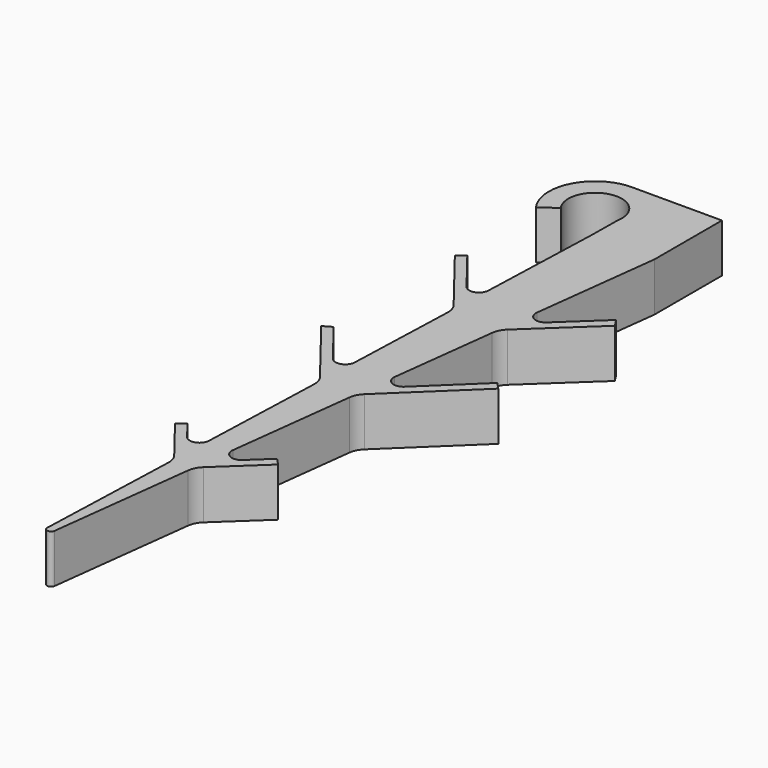
from build123d import *

# Parameters (mm, degrees)
F1_DEPTH = 6.35
F3_DEPTH = 6.35
F4_R     = 2.54
F5_R     = 1.27
F6_R     = 0.508


with BuildPart() as f1:
    # F0 (on Top) → F1 (new body)
    with BuildSketch(Plane.XY):
        with BuildLine():
            ThreePointArc((-2.799087249, 39.5839911841), (-0.7915221585, 45.0743154299), (3.4336560515, 41.0342848595))
            Line((3.4336560515, 41.0342848595), (3.3770644537, 36.6740419664))
            Line((3.3770644537, 36.6740419664), (0, -60.1062413045))
            Line((0, -60.1062413045), (11.7469782392, 36.6740419664))
            Line((11.7469782392, 36.6740419664), (11.7469782392, 47.7051909764))
            Line((11.7469782392, 47.7051909764), (0, 47.7051909764))
            ThreePointArc((0, 47.7051909764), (-5.3743672697, 44.4126239501), (-4.8820243994, 38.1291201766))
            Line((-4.8820243994, 38.1291201766), (-2.799087249, 39.5839911841))
        make_face()
    extrude(amount=F1_DEPTH)

    # F2 (on face) → F3 (join, through all)
    with BuildSketch(Plane.XY.offset(6.35)):
        Polygon((5.8018137756, 13.2742899137), (-3.6911324753, 25.4240408597), (-4.6918853336, 24.6421241656), (5.6555386255, 11.3987515904), (17.7563995016, 22.714386033), (17.0525390199, 23.7949541362), align=None)
        Polygon((1.969285928, -3.6702293277), (-4.4911685658, 4.5983219759), (-5.6035720791, 3.9593037682), (1.9003850991, -5.644796836), align=None)
        Polygon((16.2817840507, 5.3620055897), (6.8500791917, -3.6702293277), (6.6085731711, -5.6599343058), (17.1492698758, 4.4343222738), align=None)
        Polygon((1.1045974688, -28.4505659699), (1.1734982977, -26.4759984616), (-2.7963442028, -21.3951103577), (-3.7970970611, -22.1770270519), align=None)
        Polygon((9.207060252, -21.7584877759), (4.0716938985, -26.5606195399), (3.8336266245, -28.5219935843), (10.0760985599, -22.6845964633), align=None)
    extrude(amount=-F3_DEPTH)

    # F4
    f4_edges = [f1.edges().sort_by_distance(p)[0] for p in [
        (2.630216, 15.270776, 3.175),
        (9.066239, 14.588131, 3.175),
        (6.608573, -5.659934, 3.175),
        (1.900385, -5.644797, 3.175),
        (1.104597, -28.450566, 3.175),
        (3.833627, -28.521994, 3.175),
    ]]
    fillet(f4_edges, radius=F4_R)

    # F5
    f5_edges = [f1.edges().sort_by_distance(p)[0] for p in [
        (2.699117, 17.245343, 3.175),
        (9.304306, 16.549505, 3.175),
        (6.850079, -3.670229, 3.175),
        (1.969286, -3.670229, 3.175),
        (1.173498, -26.475998, 3.175),
        (4.071694, -26.56062, 3.175),
    ]]
    fillet(f5_edges, radius=F5_R)

    # F6
    f6_edges = [f1.edges().sort_by_distance(p)[0] for p in [
        (0, -60.106241, 3.175),
    ]]
    fillet(f6_edges, radius=F6_R)


solid = f1.part
